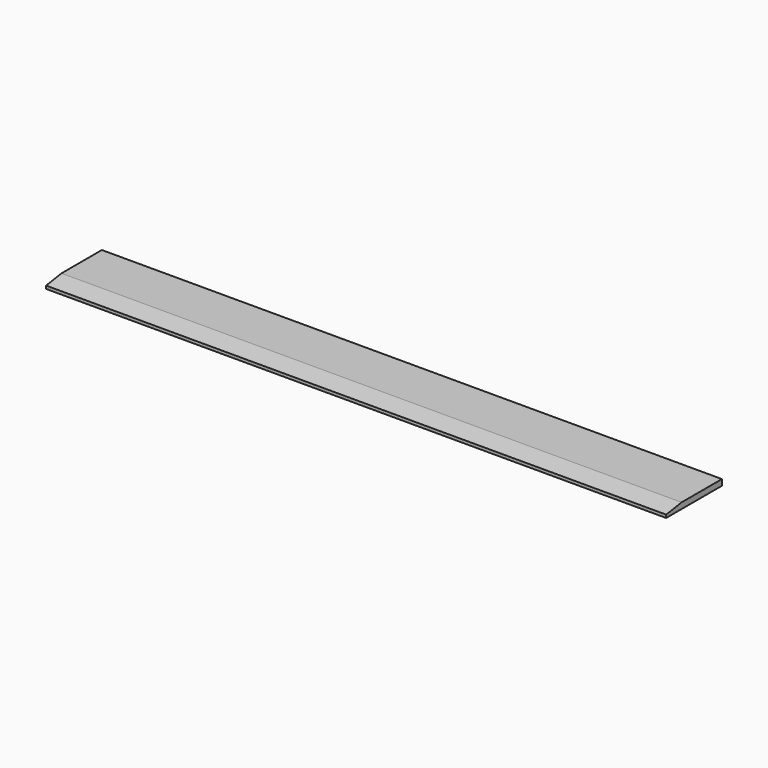
from build123d import *

# Parameters (mm, degrees)
F0_W     = 209
F0_H     = 23.5
F1_DEPTH = 2
F2_SIZE2 = 6.5
F2_SIZE  = 1


with BuildPart() as f1:
    # F0 (on Top) → F1 (new body)
    with BuildSketch(Plane.XY):
        Rectangle(F0_W, F0_H)
    extrude(amount=F1_DEPTH)

    # F2
    f2_edges = [f1.edges().sort_by_distance(p)[0] for p in [
        (0, -11.75, 2),
    ]]
    chamfer(f2_edges, length=F2_SIZE, length2=F2_SIZE2)


solid = f1.part
